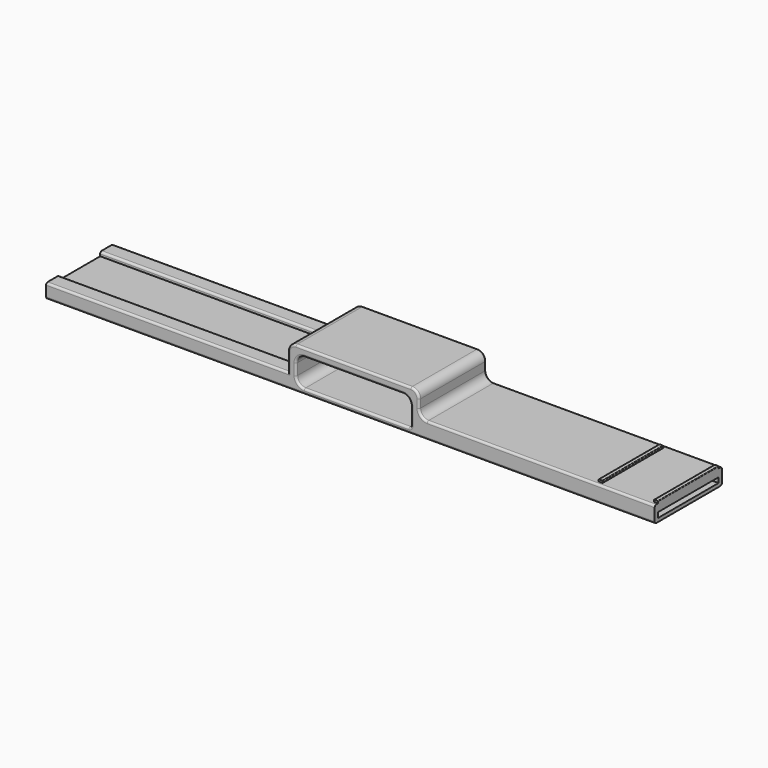
from build123d import *

# Parameters (mm, degrees)
SKETCH037_W      = 2
SKETCH037_H      = 37
EXTRUDE036_DEPTH = 1
FILLET012_R      = 0.25
SKETCH038_W      = 13.25
SKETCH038_H      = 36
EXTRUDE037_DEPTH = 2
SKETCH031_W      = 37
SKETCH031_H      = 2.5
EXTRUDE029_DEPTH = 120
SKETCH030_W      = 56
SKETCH030_H      = 13.5
EXTRUDE028_DEPTH = 41
SKETCH036_W      = 120
SKETCH036_H      = 8
EXTRUDE035_DEPTH = 2
FILLET011_R      = 1
FILLET013_R      = 4
FILLET014_R      = 1


with BuildPart() as velcrobands:
    # Sketch037 → Extrude036 (new body)
    with BuildSketch(Plane.XY.offset(5.5)):
        with Locations((174, 26.5)):
            Rectangle(SKETCH037_W, SKETCH037_H)
        with Locations((147, 26.5)):
            Rectangle(SKETCH037_W, SKETCH037_H)
    extrude(amount=EXTRUDE036_DEPTH)

    # Fillet012
    fillet012_edges = [velcrobands.edges().sort_by_distance(p)[0] for p in [
        (148, 26.5, 6.5),
        (146, 26.5, 6.5),
        (173, 26.5, 6.5),
        (175, 26.5, 6.5),
    ]]
    fillet(fillet012_edges, radius=FILLET012_R)


with BuildPart() as sensorcuts:
    # Sketch038 → Extrude037 (new body)
    with BuildSketch(Plane.XY.offset(-0.75)):
        with Locations((151.375, 26.5)):
            Rectangle(SKETCH038_W, SKETCH038_H)
    extrude(amount=-EXTRUDE037_DEPTH)


with BuildPart() as extrude029:
    # Sketch031 → Extrude029 (new body)
    with BuildSketch(Plane.YZ.offset(56)):
        with Locations((26.412533, 0.5)):
            Rectangle(SKETCH031_W, SKETCH031_H)
    extrude(amount=EXTRUDE029_DEPTH)


with BuildPart() as band002:
    # Sketch030 → Extrude028 (new body)
    with BuildSketch(Plane.XZ.offset(-6)):
        Polygon((175, 5.5), (60, 5.5), (60, 17.5), (-4, 17.5), (-4, 2.5), (-122, 2.5), (-122, -2.5), (175, -2.5), align=None)
        with Locations((28, 6.75)):
            Rectangle(SKETCH030_W, SKETCH030_H, mode=Mode.SUBTRACT)
    extrude(amount=-EXTRUDE028_DEPTH)

    # Cut002: cut Extrude029
    add(extrude029.part, mode=Mode.SUBTRACT)

    # Cut005: cut sensorCuts
    add(sensorcuts.part, mode=Mode.SUBTRACT)


with BuildPart() as fillet014:
    # Sketch036 → Extrude035 (new body)
    with BuildSketch(Plane.XY.offset(2.5)):
        with Locations((-62, 43)):
            Rectangle(SKETCH036_W, SKETCH036_H)
        with Locations((-62, 10)):
            Rectangle(SKETCH036_W, SKETCH036_H)
    extrude(amount=EXTRUDE035_DEPTH)

    # Fillet011
    fillet011_edges = [fillet014.edges().sort_by_distance(p)[0] for p in [
        (-62, 14, 4.5),
        (-62, 6, 4.5),
        (-62, 47, 4.5),
        (-62, 39, 4.5),
    ]]
    fillet(fillet011_edges, radius=FILLET011_R)

    # Fusion011: union velcroBands, band002
    add(velcrobands.part)
    add(band002.part)

    # Fillet013
    fillet013_edges = [fillet014.edges().sort_by_distance(p)[0] for p in [
        (60, 26.5, 5.5),
        (60, 26.5, 17.5),
        (-4, 26.5, 17.5),
        (0, 26.5, 0),
        (0, 26.5, 13.5),
        (56, 26.5, 13.5),
    ]]
    fillet(fillet013_edges, radius=FILLET013_R)

    # Fillet014
    fillet014_edges = [fillet014.edges().sort_by_distance(p)[0] for p in [
        (119.5, 6, 5.5),
        (26.5, 6, -2.5),
        (28, 6, 17.5),
        (28, 6, 13.5),
        (119.5, 47, 5.5),
        (26.5, 47, -2.5),
        (158, 26.5, -2.5),
        (151.375, 8.5, -2.5),
        (144.75, 26.5, -2.5),
        (151.375, 44.5, -2.5),
        (28, 47, 17.5),
        (56, 6.956266, 0),
        (56, 45.956266, 0),
        (28, 47, 13.5),
        (56, 26.412533, 1.75),
        (158, 8.5, -1.625),
        (158, 44.5, -1.625),
        (144.75, 8.5, -1.625),
        (144.75, 44.5, -1.625),
    ]]
    fillet(fillet014_edges, radius=FILLET014_R)


solid = fillet014.part
